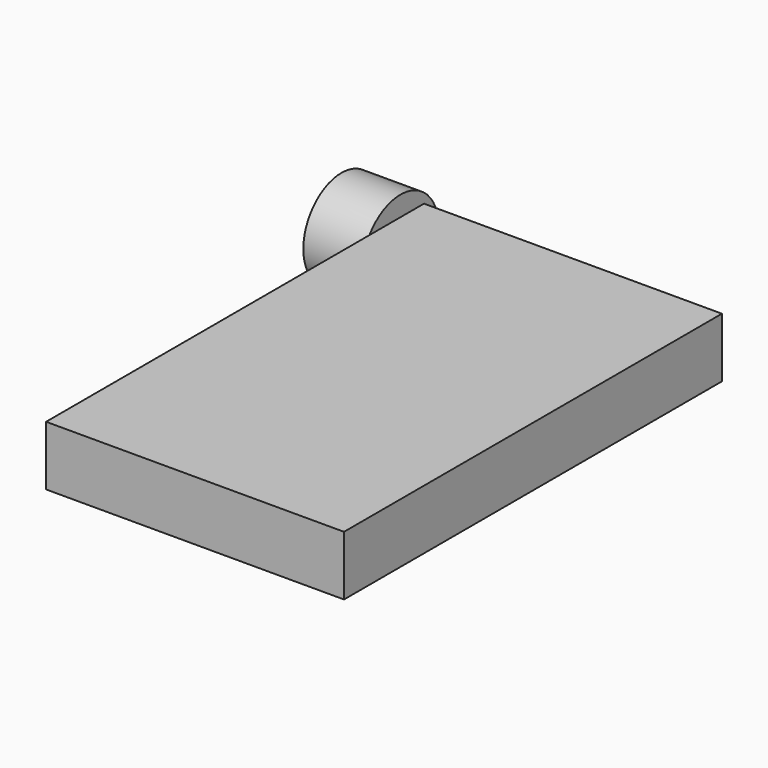
from build123d import *

# Parameters (mm, degrees)
F0_W     = 128.30928
F0_H     = 25.661856
F1_DEPTH = 203.454
F2_R     = 20.542437
F3_DEPTH = 25.4


with BuildPart() as f1:
    # F0 (on Front) → F1 (new body)
    with BuildSketch(Plane.XZ):
        with Locations((-1.558043, 12.830928)):
            Rectangle(F0_W, F0_H)
    extrude(amount=-F1_DEPTH)

    # F2 (on face) → F3 (join)
    with BuildSketch(Plane(origin=(-65.712683, 0, 0), x_dir=(0, -1, 0), z_dir=(-1, 0, 0))):
        with Locations((-190.771684, 13.703045)):
            Circle(F2_R)
    extrude(amount=F3_DEPTH)


solid = f1.part
